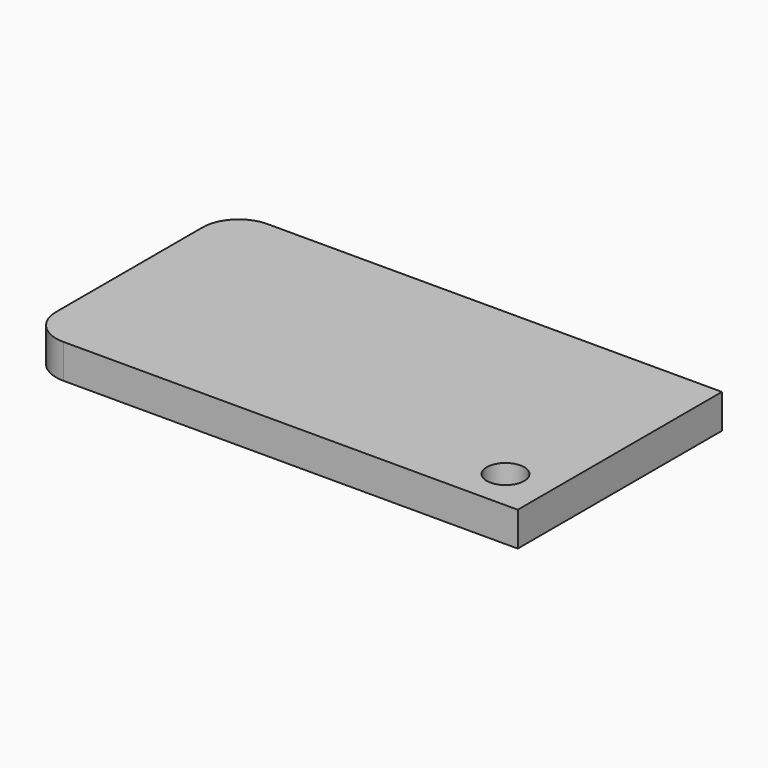
from build123d import *

# Parameters (mm, degrees)
F0_W     = 69.122039
F0_H     = 35.963256
F1_DEPTH = 4.826
F2_R     = 5.08
F3_R     = 5.08
F4_R     = 2.639502
F5_DEPTH = 25.4


with BuildPart() as f1:
    # F0 (on Top) → F1 (new body)
    with BuildSketch(Plane.XY):
        with Locations((-34.56102, 17.981628)):
            Rectangle(F0_W, F0_H)
    extrude(amount=F1_DEPTH)

    # F2
    f2_edges = [f1.edges().sort_by_distance(p)[0] for p in [
        (-69.122039, 0, 2.413),
    ]]
    fillet(f2_edges, radius=F2_R)

    # F3
    f3_edges = [f1.edges().sort_by_distance(p)[0] for p in [
        (-69.122039, 35.963256, 2.413),
    ]]
    fillet(f3_edges, radius=F3_R)

    # F4 (on face) → F5 (cut)
    with BuildSketch(Plane.XY.offset(4.826)):
        with Locations((-6.361922, 5.802391)):
            Circle(F4_R)
    extrude(amount=-F5_DEPTH, mode=Mode.SUBTRACT)


solid = f1.part
